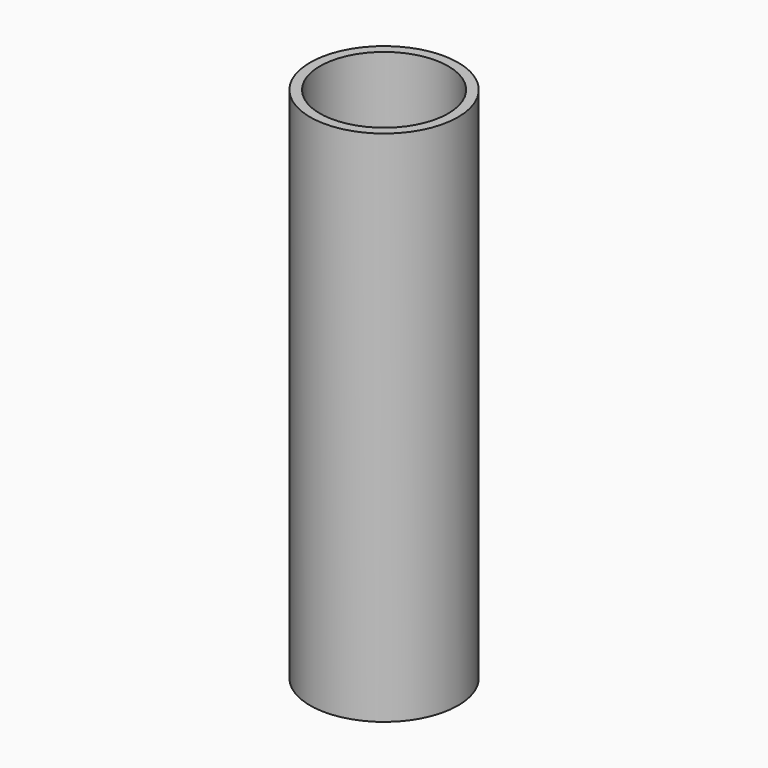
from build123d import *

# Parameters (mm, degrees)
SKETCH_R     = 15
PAD_DEPTH    = 105
SKETCH001_R  = 13
POCKET_DEPTH = 105.001


with BuildPart() as part:
    # Sketch → Pad (new body)
    with BuildSketch(Plane.XY):
        Circle(SKETCH_R)
    extrude(amount=PAD_DEPTH)

    # Sketch001 → Pocket (cut, through all)
    with BuildSketch(Plane.XY.offset(105)):
        Circle(SKETCH001_R)
    extrude(amount=-POCKET_DEPTH, mode=Mode.SUBTRACT)


solid = part.part
